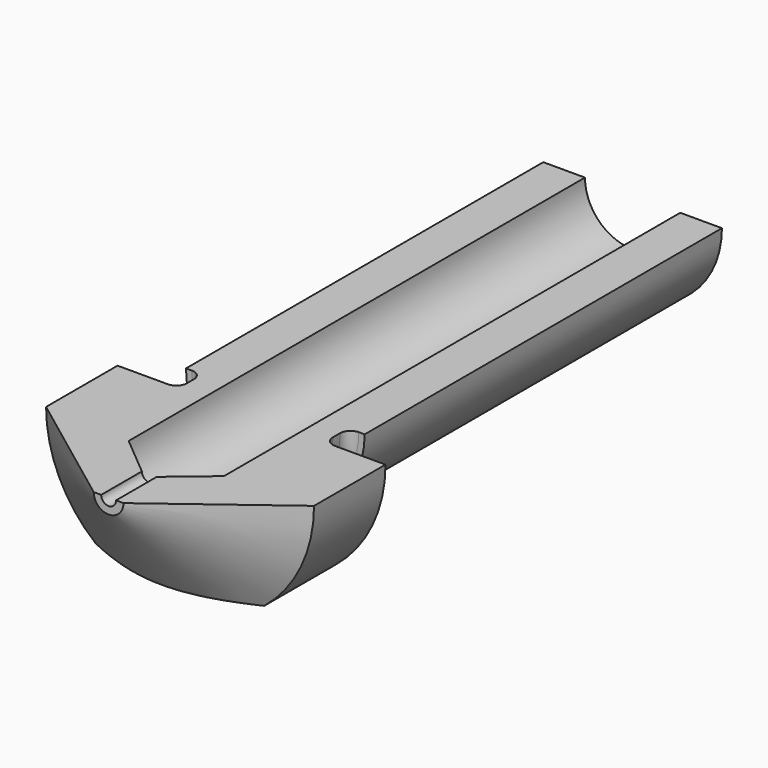
from build123d import *

# Parameters (mm, degrees)
SKETCH001_R     = 0.25
POCKET_DEPTH    = 5
SKETCH002_W     = 10
SKETCH002_H     = 2.096101
SKETCH002_H_2   = 2.304512
POCKET001_DEPTH = 22.001
FILLET_R        = 0.35
SKETCH003_W     = 20
SKETCH003_H     = 10
POCKET002_DEPTH = 22.001


with BuildPart() as part:
    # Sketch → Revolution (revolve)
    with BuildSketch(Plane.XY):
        Polygon((0, 0), (0.5, 0), (4.5, 3), (4.5, 6), (3, 6), (2.454, 6), (2.454, 7), (3, 7), (3, 22), (1.6, 22), (1.6, 2.842559), (0, 1.5), align=None)
    revolve(axis=Axis((0, 0, 0), (0, 1, 0)))

    # Sketch001 → Pocket (cut)
    with BuildSketch(Plane.XZ):
        Circle(SKETCH001_R)
    extrude(amount=-POCKET_DEPTH, mode=Mode.SUBTRACT)

    # Sketch002 → Pocket001 (cut, through all)
    with BuildSketch(Plane.XZ):
        with Locations((-0.418938, 4.548051)):
            Rectangle(SKETCH002_W, SKETCH002_H)
        with Locations((-0.456429, -4.652256)):
            Rectangle(SKETCH002_W, SKETCH002_H_2)
    extrude(amount=-POCKET001_DEPTH, mode=Mode.SUBTRACT)

    # Fillet
    fillet_edges = [part.edges().sort_by_distance(p)[0] for p in [
        (-2.454, 7, 0),
        (-2.454, 6, 0),
    ]]
    fillet(fillet_edges, radius=FILLET_R)

    # Sketch003 → Pocket002 (cut, through all)
    with BuildSketch(Plane(origin=(0, 22, 0), x_dir=(-1, 0, 0), z_dir=(0, 1, 0))):
        with Locations((0, 5)):
            Rectangle(SKETCH003_W, SKETCH003_H)
    extrude(amount=-POCKET002_DEPTH, mode=Mode.SUBTRACT)


solid = part.part
